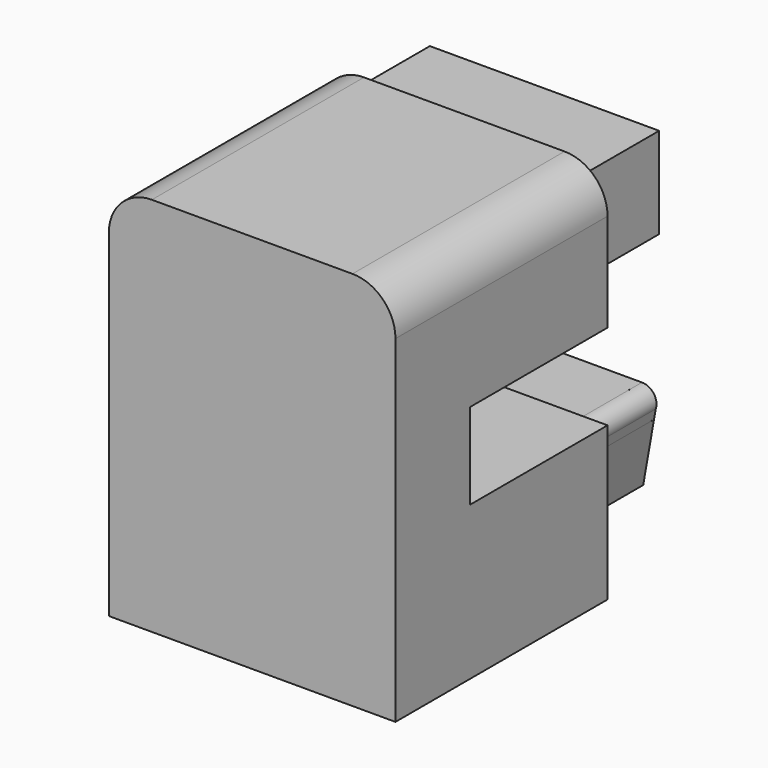
from build123d import *

# Parameters (mm, degrees)
BOX_W             = 20
BOX_H             = 25.5
BOX_DEPTH         = 28.42
BOX001_W          = 2
BOX001_H          = 7
BOX001_DEPTH      = 31.5
BOX002_W          = 2
BOX002_H          = 7.5
BOX002_DEPTH      = 31
BOX003_W          = 21
BOX003_H          = 19
BOX003_DEPTH      = 6
BOX008_W          = 18
BOX008_H          = 7
BOX008_DEPTH      = 9.5
BOX009_W          = 22
BOX009_H          = 7
BOX009_DEPTH      = 3.175
BOX010_W          = 23
BOX010_H          = 7
BOX010_DEPTH      = 3.2
BOX011_W          = 1
BOX011_H          = 1
BOX011_DEPTH      = 24
BOX012_W          = 1
BOX012_H          = 1
BOX012_DEPTH      = 24
BOX019_W          = 21
BOX019_H          = 20
BOX019_DEPTH      = 3
BOX020_W          = 1
BOX020_H          = 1
BOX020_DEPTH      = 8.2
BOX021_W          = 1
BOX021_H          = 1
BOX021_DEPTH      = 24
BOX022_W          = 1
BOX022_H          = 1
BOX022_DEPTH      = 24
CYLINDER_R        = 0.5
CYLINDER_DEPTH    = 19
CYLINDER001_R     = 0.5
CYLINDER001_DEPTH = 24
CYLINDER002_R     = 0.5
CYLINDER002_DEPTH = 17
CYLINDER003_R     = 0.5
CYLINDER003_DEPTH = 17
BOX023_W          = 1
BOX023_H          = 1
BOX023_DEPTH      = 24
BOX024_W          = 1
BOX024_H          = 1
BOX024_DEPTH      = 24
BOX025_W          = 1
BOX025_H          = 1
BOX025_DEPTH      = 24
BOX026_W          = 1
BOX026_H          = 1
BOX026_DEPTH      = 24
BOX027_W          = 1
BOX027_H          = 1
BOX027_DEPTH      = 24
BOX028_W          = 1
BOX028_H          = 1
BOX028_DEPTH      = 24
BOX029_W          = 2
BOX029_H          = 8
BOX029_DEPTH      = 8
BOX030_W          = 2
BOX030_H          = 8
BOX030_DEPTH      = 8
BOX033_W          = 2
BOX033_H          = 7
BOX033_DEPTH      = 2
BOX034_W          = 2
BOX034_H          = 7
BOX034_DEPTH      = 2
CYLINDER006_R     = 1
CYLINDER006_DEPTH = 7
BOX035_W          = 0.8
BOX035_H          = 7
BOX035_DEPTH      = 2
BOX036_W          = 1
BOX036_H          = 1
BOX036_DEPTH      = 7
CYLINDER007_R     = 1
CYLINDER007_DEPTH = 7
BOX037_W          = 0.8
BOX037_H          = 7
BOX037_DEPTH      = 2
BOX038_W          = 1
BOX038_H          = 1
BOX038_DEPTH      = 7
FILLET008_R       = 3


with BuildPart() as part:
    # Box → Box (join)
    with BuildSketch(Plane(origin=(-10, 0, 0), x_dir=(1, 0, 0), z_dir=(0, 0, 1))):
        with Locations((10, 12.75)):
            Rectangle(BOX_W, BOX_H)
    extrude(amount=BOX_DEPTH)

    # Box001 → Box001 (cut)
    with BuildSketch(Plane(origin=(-10, 18.5, 0), x_dir=(1, 0, 0), z_dir=(0, 0, 1))):
        with Locations((1, 3.5)):
            Rectangle(BOX001_W, BOX001_H)
    extrude(amount=BOX001_DEPTH, mode=Mode.SUBTRACT)

    # Box002 → Box002 (cut)
    with BuildSketch(Plane(origin=(8, 18.5, 0), x_dir=(1, 0, 0), z_dir=(0, 0, 1))):
        with Locations((1, 3.75)):
            Rectangle(BOX002_W, BOX002_H)
    extrude(amount=BOX002_DEPTH, mode=Mode.SUBTRACT)

    # Box003 → Box003 (cut)
    with BuildSketch(Plane(origin=(-10.5, 6.5, 10.7), x_dir=(1, 0, 0), z_dir=(0, 0, 1))):
        with Locations((10.5, 9.5)):
            Rectangle(BOX003_W, BOX003_H)
    extrude(amount=BOX003_DEPTH, mode=Mode.SUBTRACT)

    # Box008 → Box008 (cut)
    with BuildSketch(Plane(origin=(-9, 18.5, 9.45), x_dir=(1, 0, 0), z_dir=(0, 0, 1))):
        with Locations((9, 3.5)):
            Rectangle(BOX008_W, BOX008_H)
    extrude(amount=BOX008_DEPTH, mode=Mode.SUBTRACT)

    # Box009 → Box009 (cut)
    with BuildSketch(Plane(origin=(-11, 18.5, 0), x_dir=(1, 0, 0), z_dir=(0, 0, 1))):
        with Locations((11, 3.5)):
            Rectangle(BOX009_W, BOX009_H)
    extrude(amount=BOX009_DEPTH, mode=Mode.SUBTRACT)

    # Box010 → Box010 (cut)
    with BuildSketch(Plane(origin=(-11.5, 18.5, 25.3), x_dir=(1, 0, 0), z_dir=(0, 0, 1))):
        with Locations((11.5, 3.5)):
            Rectangle(BOX010_W, BOX010_H)
    extrude(amount=BOX010_DEPTH, mode=Mode.SUBTRACT)

    # Box011 → Box011 (cut)
    with BuildSketch(Plane(origin=(-0.5, 1.95, 0), x_dir=(1, 0, 0), z_dir=(0, 0, 1))):
        with Locations((0.5, 0.5)):
            Rectangle(BOX011_W, BOX011_H)
    extrude(amount=BOX011_DEPTH, mode=Mode.SUBTRACT)

    # Box012 → Box012 (cut)
    with BuildSketch(Plane(origin=(2.27, 2.1, 0), x_dir=(1, 0, 0), z_dir=(0, 0, 1))):
        with Locations((0.5, 0.5)):
            Rectangle(BOX012_W, BOX012_H)
    extrude(amount=BOX012_DEPTH, mode=Mode.SUBTRACT)

    # Box019 → Box019 (cut)
    with BuildSketch(Plane(origin=(-10.5, 0, 26.55), x_dir=(1, 0, 0), z_dir=(0, 0, 1))):
        with Locations((10.5, 10)):
            Rectangle(BOX019_W, BOX019_H)
    extrude(amount=BOX019_DEPTH, mode=Mode.SUBTRACT)

    # Box020 → Box020 (cut)
    with BuildSketch(Plane(origin=(-0.5, 8.4, 0), x_dir=(1, 0, 0), z_dir=(0, 0, 1))):
        with Locations((0.5, 0.5)):
            Rectangle(BOX020_W, BOX020_H)
    extrude(amount=BOX020_DEPTH, mode=Mode.SUBTRACT)

    # Box021 → Box021 (cut)
    with BuildSketch(Plane(origin=(4.975, 2.1, 0), x_dir=(1, 0, 0), z_dir=(0, 0, 1))):
        with Locations((0.5, 0.5)):
            Rectangle(BOX021_W, BOX021_H)
    extrude(amount=BOX021_DEPTH, mode=Mode.SUBTRACT)

    # Box022 → Box022 (cut)
    with BuildSketch(Plane(origin=(-5.975, 2.1, 0), x_dir=(1, 0, 0), z_dir=(0, 0, 1))):
        with Locations((0.5, 0.5)):
            Rectangle(BOX022_W, BOX022_H)
    extrude(amount=BOX022_DEPTH, mode=Mode.SUBTRACT)

    # Cylinder → Cylinder (cut)
    with BuildSketch(Plane(origin=(0, 28, 7.7), x_dir=(1, 0, 0), z_dir=(0, -1, 0))):
        Circle(CYLINDER_R)
    extrude(amount=CYLINDER_DEPTH, mode=Mode.SUBTRACT)

    # Cylinder001 → Cylinder001 (cut)
    with BuildSketch(Plane(origin=(0, 2, 23.55), x_dir=(1, 0, 0), z_dir=(0, 1, 0))):
        Circle(CYLINDER001_R)
    extrude(amount=CYLINDER001_DEPTH, mode=Mode.SUBTRACT)

    # Cylinder002 → Cylinder002 (cut)
    with BuildSketch(Plane(origin=(5.475, 9.2, 7.7), x_dir=(1, 0, 0), z_dir=(0, 1, 0))):
        Circle(CYLINDER002_R)
    extrude(amount=CYLINDER002_DEPTH, mode=Mode.SUBTRACT)

    # Cylinder003 → Cylinder003 (cut)
    with BuildSketch(Plane(origin=(-5.475, 9, 7.7), x_dir=(1, 0, 0), z_dir=(0, 1, 0))):
        Circle(CYLINDER003_R)
    extrude(amount=CYLINDER003_DEPTH, mode=Mode.SUBTRACT)

    # Box023 → Box023 (cut)
    with BuildSketch(Plane(origin=(-3.275, 2.1, 0), x_dir=(1, 0, 0), z_dir=(0, 0, 1))):
        with Locations((0.5, 0.5)):
            Rectangle(BOX023_W, BOX023_H)
    extrude(amount=BOX023_DEPTH, mode=Mode.SUBTRACT)

    # Box024 → Box024 (cut)
    with BuildSketch(Plane(origin=(-3.275, 8.55, 0), x_dir=(1, 0, 0), z_dir=(0, 0, 1))):
        with Locations((0.5, 0.5)):
            Rectangle(BOX024_W, BOX024_H)
    extrude(amount=BOX024_DEPTH, mode=Mode.SUBTRACT)

    # Box025 → Box025 (cut)
    with BuildSketch(Plane(origin=(0.9, 4.65, 0), x_dir=(1, 0, 0), z_dir=(0, 0, 1))):
        with Locations((0.5, 0.5)):
            Rectangle(BOX025_W, BOX025_H)
    extrude(amount=BOX025_DEPTH, mode=Mode.SUBTRACT)

    # Box026 → Box026 (cut)
    with BuildSketch(Plane(origin=(-1.877, 4.65, 0), x_dir=(1, 0, 0), z_dir=(0, 0, 1))):
        with Locations((0.5, 0.5)):
            Rectangle(BOX026_W, BOX026_H)
    extrude(amount=BOX026_DEPTH, mode=Mode.SUBTRACT)

    # Box027 → Box027 (cut)
    with BuildSketch(Plane(origin=(3.65, 4.65, 0), x_dir=(1, 0, 0), z_dir=(0, 0, 1))):
        with Locations((0.5, 0.5)):
            Rectangle(BOX027_W, BOX027_H)
    extrude(amount=BOX027_DEPTH, mode=Mode.SUBTRACT)

    # Box028 → Box028 (cut)
    with BuildSketch(Plane(origin=(-4.6, 4.65, 0), x_dir=(1, 0, 0), z_dir=(0, 0, 1))):
        with Locations((0.5, 0.5)):
            Rectangle(BOX028_W, BOX028_H)
    extrude(amount=BOX028_DEPTH, mode=Mode.SUBTRACT)

    # Box029 → Box029 (cut)
    with BuildSketch(Plane(origin=(6.735, 18.5, 2.3), x_dir=(0.984808, 0, -0.173648), z_dir=(0.173648, 0, 0.984808))):
        with Locations((1, 4)):
            Rectangle(BOX029_W, BOX029_H)
    extrude(amount=BOX029_DEPTH, mode=Mode.SUBTRACT)

    # Box030 → Box030 (cut)
    with BuildSketch(Plane(origin=(-8.765, 18.5, 2.3), x_dir=(0.984808, 0, 0.173648), z_dir=(-0.173648, 0, 0.984808))):
        with Locations((1, 4)):
            Rectangle(BOX030_W, BOX030_H)
    extrude(amount=BOX030_DEPTH, mode=Mode.SUBTRACT)

    # Box033 → Box033 (cut)
    with BuildSketch(Plane(origin=(-8, 18.5, 7.45), x_dir=(1, 0, 0), z_dir=(0, 0, 1))):
        with Locations((1, 3.5)):
            Rectangle(BOX033_W, BOX033_H)
    extrude(amount=BOX033_DEPTH, mode=Mode.SUBTRACT)

    # Box034 → Box034 (cut)
    with BuildSketch(Plane(origin=(6, 18.5, 7.45), x_dir=(1, 0, 0), z_dir=(0, 0, 1))):
        with Locations((1, 3.5)):
            Rectangle(BOX034_W, BOX034_H)
    extrude(amount=BOX034_DEPTH, mode=Mode.SUBTRACT)

    # Cylinder006 → Cylinder006 (join)
    with BuildSketch(Plane(origin=(6.815, 25.5, 8.45), x_dir=(1, 0, 0), z_dir=(0, -1, 0))):
        Circle(CYLINDER006_R)
    extrude(amount=CYLINDER006_DEPTH)

    # Box035 → Box035 (join)
    with BuildSketch(Plane(origin=(6, 18.5, 7.45), x_dir=(1, 0, 0), z_dir=(0, 0, 1))):
        with Locations((0.4, 3.5)):
            Rectangle(BOX035_W, BOX035_H)
    extrude(amount=BOX035_DEPTH)

    # Box036 → Box036 (join)
    with BuildSketch(Plane(origin=(7.6075, 25.5, 7.25), x_dir=(0.173648, 0, 0.984808), z_dir=(0, -1, 0))):
        with Locations((0.5, 0.5)):
            Rectangle(BOX036_W, BOX036_H)
    extrude(amount=BOX036_DEPTH)

    # Cylinder007 → Cylinder007 (join)
    with BuildSketch(Plane(origin=(-6.815, 25.5, 8.45), x_dir=(1, 0, 0), z_dir=(0, -1, 0))):
        Circle(CYLINDER007_R)
    extrude(amount=CYLINDER007_DEPTH)

    # Box037 → Box037 (join)
    with BuildSketch(Plane(origin=(-6.8, 18.5, 7.45), x_dir=(1, 0, 0), z_dir=(0, 0, 1))):
        with Locations((0.4, 3.5)):
            Rectangle(BOX037_W, BOX037_H)
    extrude(amount=BOX037_DEPTH)

    # Box038 → Box038 (join)
    with BuildSketch(Plane(origin=(-7.7834, 25.5, 8.25), x_dir=(0.173648, 0, -0.984808), z_dir=(0, -1, 0))):
        with Locations((0.5, 0.5)):
            Rectangle(BOX038_W, BOX038_H)
    extrude(amount=BOX038_DEPTH)

    # Fillet008
    fillet008_edges = [part.edges().sort_by_distance(p)[0] for p in [
        (10, 9.25, 26.55),
        (-10, 9.25, 26.55),
    ]]
    fillet(fillet008_edges, radius=FILLET008_R)


solid = part.part
